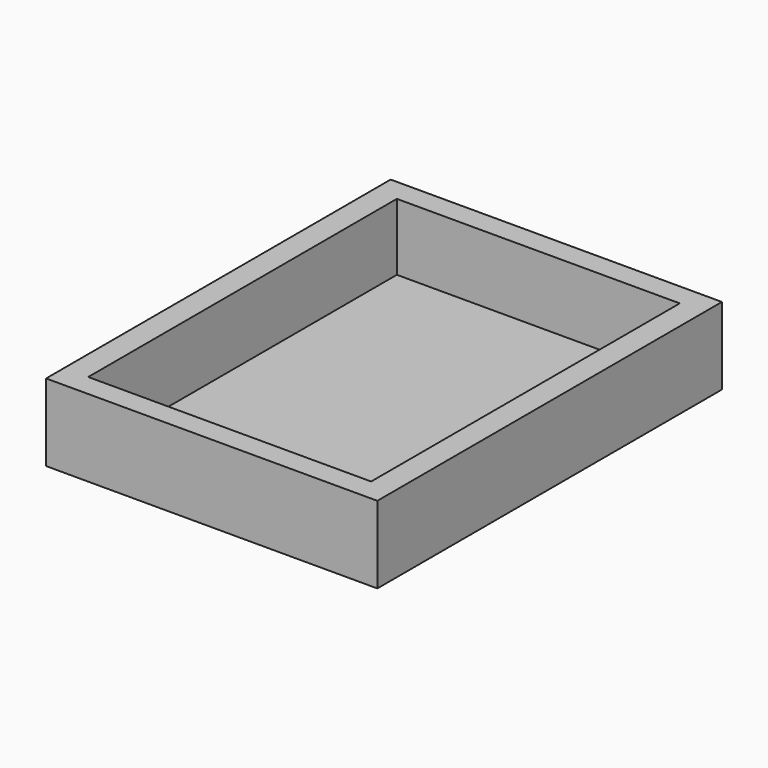
from build123d import *

# Parameters (mm, degrees)
SKETCH_W     = 64.4
SKETCH_H     = 83.73
PAD_DEPTH    = 15
SKETCH001_W  = 55
SKETCH001_H  = 75
POCKET_DEPTH = 13


with BuildPart() as part:
    # Sketch → Pad (new body)
    with BuildSketch(Plane.XY):
        Rectangle(SKETCH_W, SKETCH_H)
    extrude(amount=PAD_DEPTH)

    # Sketch001 (on Face6 of Pad) → Pocket (cut)
    with BuildSketch(Plane.XY.offset(15)):
        Rectangle(SKETCH001_W, SKETCH001_H)
    extrude(amount=-POCKET_DEPTH, mode=Mode.SUBTRACT)


solid = part.part
